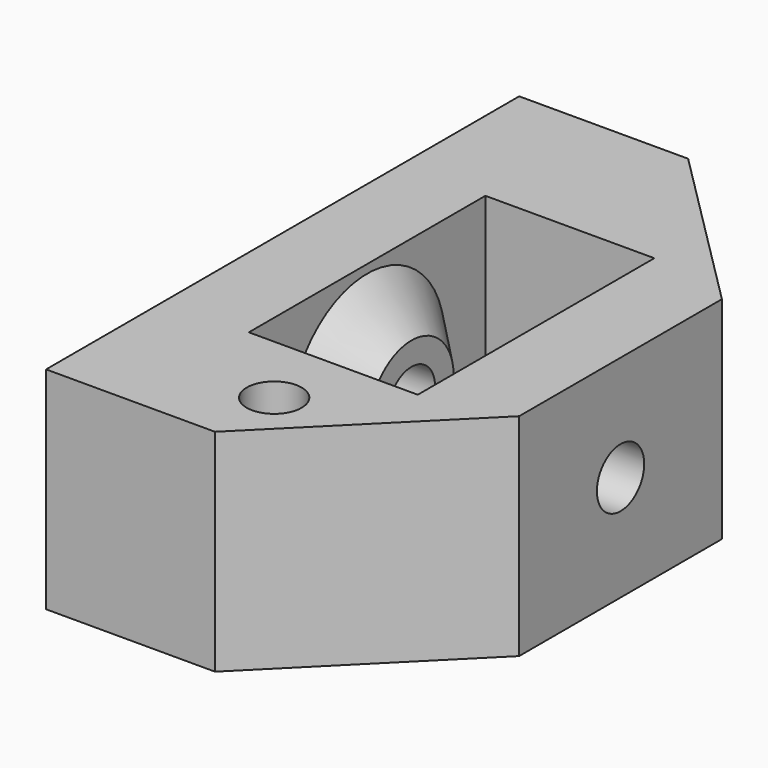
from build123d import *

# Parameters (mm, degrees)
CYLINDER054061_R                           = 1.3
CYLINDER054061_DEPTH                       = 50
CYLINDER054060_R                           = 2.2
CYLINDER054060_DEPTH                       = 20
CYLINDER054060_PITCH_ANGLE                 = 90
CYLINDER054056_R                           = 1.4
CYLINDER054056_DEPTH                       = 40
CYLINDER054056_PITCH_ANGLE                 = 90
BOX112015002017004007004036_W              = 60
BOX112015002017004007004036_H              = 14
BOX112015002017004007004036_DEPTH          = 8
BOX112015002017004007004036_PITCH_ANGLE    = 90
BOX112015002017004007004037_W              = 10
BOX112015002017004007004037_H              = 28
BOX112015002017004007004037_DEPTH          = 16
BOX112015002017004007004037_PITCH_ANGLE    = 90
CHAMFER006012025_SIZE                      = 8
CHAMFER006012026_SIZE                      = 8
CONE012_PITCH_ANGLE                        = 90
PART_MIRRORING005008_PITCH_ANGLE           = 90
BOX112015002017004007004038008_W           = 10
BOX112015002017004007004038008_H           = 28
BOX112015002017004007004038008_DEPTH       = 16
BOX112015002017004007004038008_PITCH_ANGLE = 90


with BuildPart() as cylinder054101:
    # Cylinder054061 → Cylinder054061 (new body)
    with BuildSketch(Plane(origin=(0, -10.5, 7), x_dir=(1, 0, 0), z_dir=(0, 0, 1))):
        Circle(CYLINDER054061_R)
    extrude(amount=CYLINDER054061_DEPTH)


with BuildPart() as cylinder054100:
    # Cylinder054060 → Cylinder054060 (new body)
    with BuildSketch(Plane.XY):
        Circle(CYLINDER054060_R)
    extrude(amount=CYLINDER054060_DEPTH)


with BuildPart() as cylinder054100_1:
    # Cylinder054060 pitch: moved
    add(cylinder054100.part.rotate(Axis((0, 0, 0), (0, 1, 0)), CYLINDER054060_PITCH_ANGLE))


with BuildPart() as cylinder054100_2:
    # Cylinder054060 placement: moved
    add(cylinder054100_1.part.moved(Location((-10, 11, 32))))


with BuildPart() as bearing_m3:
    # Cylinder054056 → Cylinder054056 (new body)
    with BuildSketch(Plane.XY):
        Circle(CYLINDER054056_R)
    extrude(amount=CYLINDER054056_DEPTH)


with BuildPart() as bearing_m3_1:
    # Cylinder054056 pitch: moved
    add(bearing_m3.part.rotate(Axis((0, 0, 0), (0, 1, 0)), CYLINDER054056_PITCH_ANGLE))


with BuildPart() as bearing_m3_2:
    # Cylinder054056 placement: moved
    add(bearing_m3_1.part.moved(Location((-20, 0, 38))))


with BuildPart() as cube119:
    # Box112015002017004007004036 → Box112015002017004007004036 (new body)
    with BuildSketch(Plane.XY):
        with Locations((30, 7)):
            Rectangle(BOX112015002017004007004036_W, BOX112015002017004007004036_H)
    extrude(amount=BOX112015002017004007004036_DEPTH)


with BuildPart() as cube119_1:
    # Box112015002017004007004036 pitch: moved
    add(cube119.part.rotate(Axis((0, 0, 0), (0, 1, 0)), BOX112015002017004007004036_PITCH_ANGLE))


with BuildPart() as cube119_2:
    # Box112015002017004007004036 placement: moved
    add(cube119_1.part.moved(Location((-4, -7, 68))))


with BuildPart() as cut298:
    # Box112015002017004007004037 → Box112015002017004007004037 (new body)
    with BuildSketch(Plane.XY):
        with Locations((5, 14)):
            Rectangle(BOX112015002017004007004037_W, BOX112015002017004007004037_H)
    extrude(amount=BOX112015002017004007004037_DEPTH)


with BuildPart() as cut298_1:
    # Box112015002017004007004037 pitch: moved
    add(cut298.part.rotate(Axis((0, 0, 0), (0, 1, 0)), BOX112015002017004007004037_PITCH_ANGLE))


with BuildPart() as cut298_2:
    # Box112015002017004007004037 placement: moved
    add(cut298_1.part.moved(Location((-8, -14, 43))))

    # Chamfer006012025
    chamfer006012025_edges = [cut298_2.edges().sort_by_distance(p)[0] for p in [
        (8, 14, 38),
    ]]
    chamfer(chamfer006012025_edges, length=CHAMFER006012025_SIZE)

    # Chamfer006012026
    chamfer006012026_edges = [cut298_2.edges().sort_by_distance(p)[0] for p in [
        (8, -14, 38),
    ]]
    chamfer(chamfer006012026_edges, length=CHAMFER006012026_SIZE)

    # Cut298: cut Cube119
    add(cube119_2.part, mode=Mode.SUBTRACT)


with BuildPart() as cone012:
    # Cone012 → Cone012 (revolve)
    with BuildSketch(Plane.XZ):
        Polygon((0, 0), (2.5, 0), (5.5, 3), (0, 3), align=None)
    revolve(axis=Axis((0, 0, 0), (0, 0, 1)))


with BuildPart() as cone012_1:
    # Cone012 pitch: moved
    add(cone012.part.rotate(Axis((0, 0, 0), (0, 1, 0)), CONE012_PITCH_ANGLE))


with BuildPart() as cone012_2:
    # Cone012 placement: moved
    add(cone012_1.part.moved(Location((1.9, 0, 38))))


with BuildPart() as cone011:
    # Cone011 → Cone011 (revolve)
    with BuildSketch(Plane(origin=(0, 0, 2), x_dir=(1, 0, 0), z_dir=(0, -1, 0))):
        Polygon((0, 0), (2.5, 0), (5.5, 3), (0, 3), align=None)
    revolve(axis=Axis((0, 0, 2), (0, 0, 1)))


with BuildPart() as bearing_cones:
    # Part__Mirroring005008: instance of Cone011
    add(cone011.part.mirror(Plane(origin=(0, 0, 0), x_dir=(0, 1, 0), z_dir=(0, 0, 1))))


with BuildPart() as bearing_cones_1:
    # Part__Mirroring005008 pitch: moved
    add(bearing_cones.part.rotate(Axis((0, 0, 0), (0, 1, 0)), PART_MIRRORING005008_PITCH_ANGLE))


with BuildPart() as bearing_cones_2:
    # Part__Mirroring005008 placement: moved
    add(bearing_cones_1.part.moved(Location((0.1, 0, 38))))

    # Fusion051010010012015014027: union Cone012
    add(cone012_2.part)


with BuildPart() as f_6144_wire_tensioner_block:
    # Box112015002017004007004038008 → Box112015002017004007004038008 (new body)
    with BuildSketch(Plane.XY):
        with Locations((5, 14)):
            Rectangle(BOX112015002017004007004038008_W, BOX112015002017004007004038008_H)
    extrude(amount=BOX112015002017004007004038008_DEPTH)


with BuildPart() as f_6144_wire_tensioner_block_1:
    # Box112015002017004007004038008 pitch: moved
    add(f_6144_wire_tensioner_block.part.rotate(Axis((0, 0, 0), (0, 1, 0)), BOX112015002017004007004038008_PITCH_ANGLE))


with BuildPart() as f_6144_wire_tensioner_block_2:
    # Box112015002017004007004038008 placement: moved
    add(f_6144_wire_tensioner_block_1.part.moved(Location((-8, -14, 43))))

    # Common010: intersect bearing-cones
    add(bearing_cones_2.part, mode=Mode.INTERSECT)

    # Fusion051010010012015014034: union Cut298
    add(cut298_2.part)

    # Cut299: cut bearing-M3
    add(bearing_m3_2.part, mode=Mode.SUBTRACT)

    # Cut300: cut Cylinder054100
    add(cylinder054100_2.part, mode=Mode.SUBTRACT)

    # Cut301: cut Cylinder054101
    add(cylinder054101.part, mode=Mode.SUBTRACT)


with BuildPart() as f_6144_wire_tensioner_block_3:
    # Cut301 placement: moved
    add(f_6144_wire_tensioner_block_2.part.moved(Location((0, 0, 79))))


solid = f_6144_wire_tensioner_block_3.part
